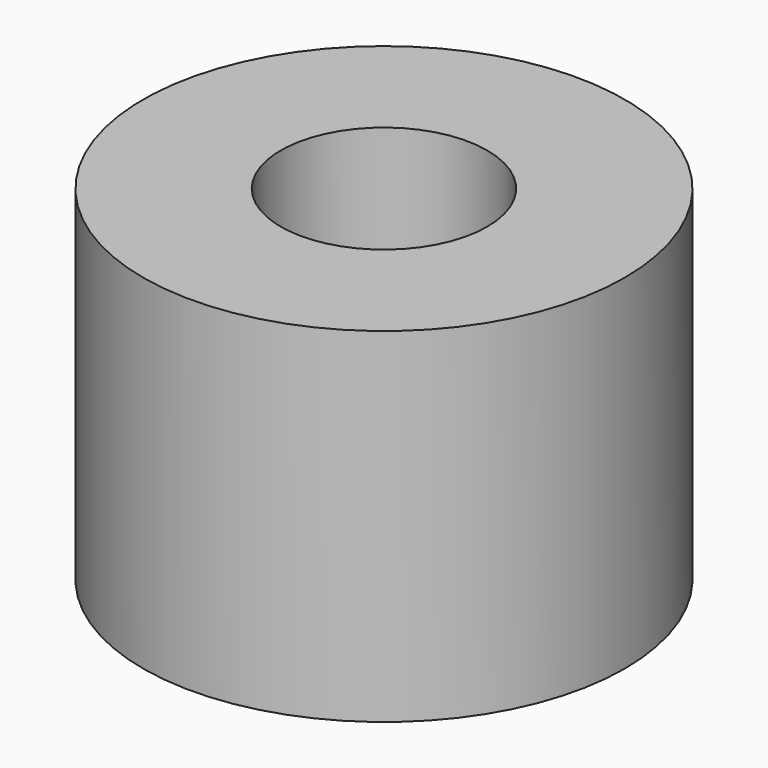
from build123d import *

# Parameters (mm, degrees)
SKETCH_R     = 3.5
PAD_DEPTH    = 5
SKETCH001_R  = 1.5
POCKET_DEPTH = 5


with BuildPart() as part:
    # Sketch → Pad (new body)
    with BuildSketch(Plane.XY):
        Circle(SKETCH_R)
    extrude(amount=PAD_DEPTH)

    # Sketch001 (on Face3 of Pad) → Pocket (cut)
    with BuildSketch(Plane.XY.offset(5)):
        Circle(SKETCH001_R)
    extrude(amount=-POCKET_DEPTH, mode=Mode.SUBTRACT)


solid = part.part
